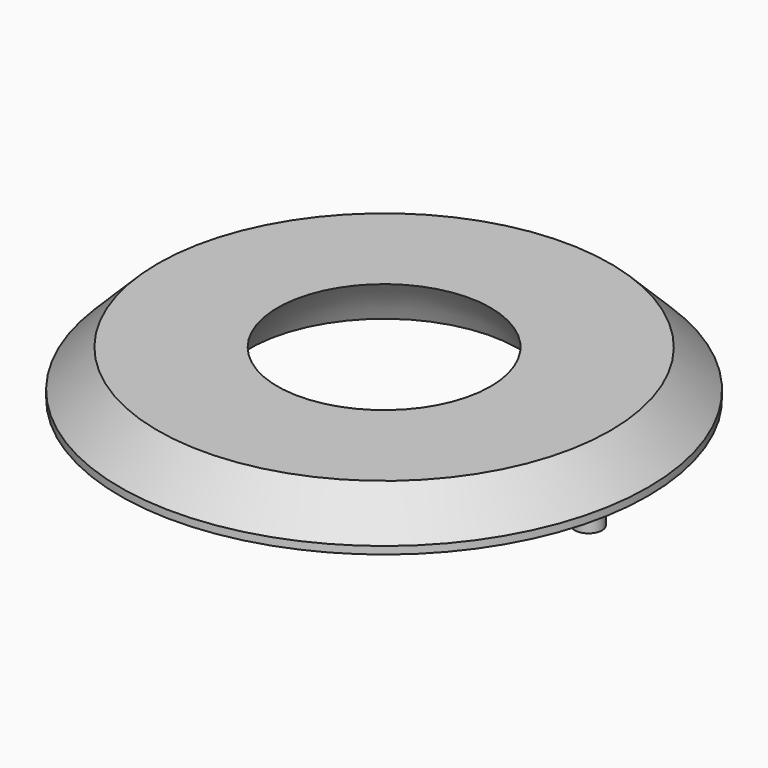
from build123d import *

# Parameters (mm, degrees)
F2_SIZE  = 2.5
F3_R     = 0.9
F4_DEPTH = 3


with BuildPart() as f1:
    # F0 (on Front) → F1 (revolve)
    with BuildSketch(Plane.XZ):
        with BuildLine():
            Line((17.5, 0), (7.064701, 0))
            ThreePointArc((7.064701, 0), (8.141347, -1.412911), (8.939239, -3))
            Line((8.939239, -3), (17.5, -3))
            Line((17.5, -3), (17.5, 0))
        make_face()
    revolve(axis=Axis((0, 0, -4.75), (0, 0, -1)))

    # F2
    f2_edges = [f1.edges().sort_by_distance(p)[0] for p in [
        (-17.5, 0, 0),
    ]]
    chamfer(f2_edges, length=F2_SIZE)

    # F3 (on face) → F4 (join)
    with BuildSketch(Plane(origin=(0, 0, -3), x_dir=(1, 0, 0), z_dir=(0, 0, -1))):
        with Locations((-13.55, 0)):
            Circle(F3_R)
        with Locations((13.55, 0)):
            Circle(F3_R)
    extrude(amount=F4_DEPTH)


solid = f1.part
